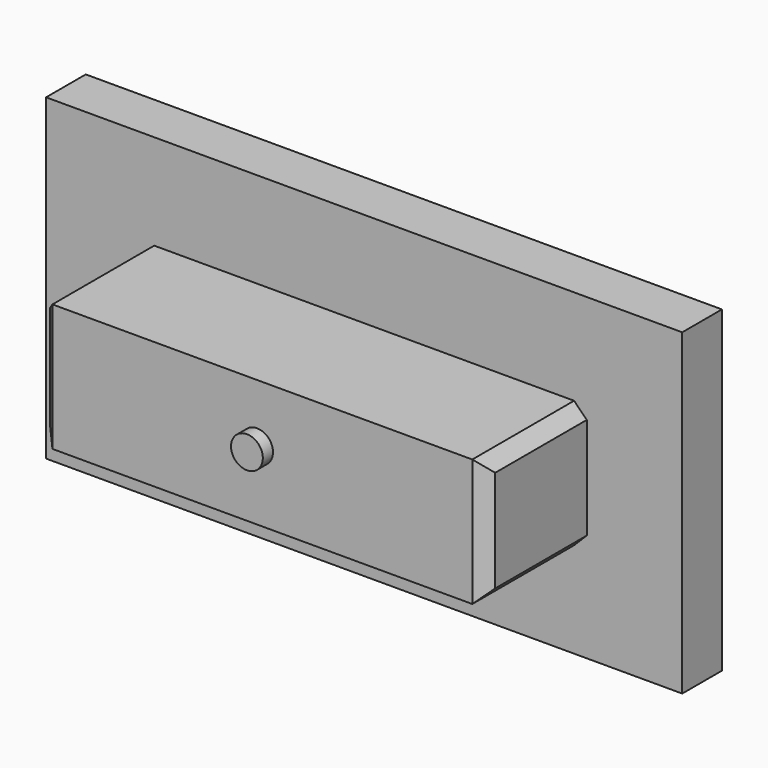
from build123d import *

# Parameters (mm, degrees)
F0_W     = 100
F0_H     = 50
F1_DEPTH = 7.798489
F2_W     = 70
F2_H     = 20
F3_DEPTH = 20
F5_SIZE  = 2
F6_R     = 2.5
F7_DEPTH = 2


with BuildPart() as f1:
    # F0 (on Front) → F1 (new body)
    with BuildSketch(Plane.XZ):
        with Locations((50, 25)):
            Rectangle(F0_W, F0_H)
    extrude(amount=F1_DEPTH)

    # F2 (on face) → F3 (join)
    with BuildSketch(Plane.XZ.offset(7.798489)):
        with Locations((50, 25)):
            Rectangle(F2_W, F2_H)
    extrude(amount=F3_DEPTH)

    # F5
    f5_edges = [f1.edges().sort_by_distance(p)[0] for p in [
        (85, -17.798489, 15),
        (85, -17.798489, 35),
        (15, -17.798489, 15),
        (15, -17.798489, 35),
        (15, -27.798489, 25),
        (85, -27.798489, 25),
    ]]
    chamfer(f5_edges, length=F5_SIZE)

    # F6 (on face) → F7 (join)
    with BuildSketch(Plane.XZ.offset(27.798489)):
        with Locations((49.172595, 25.819309)):
            Circle(F6_R)
    extrude(amount=F7_DEPTH)


solid = f1.part
